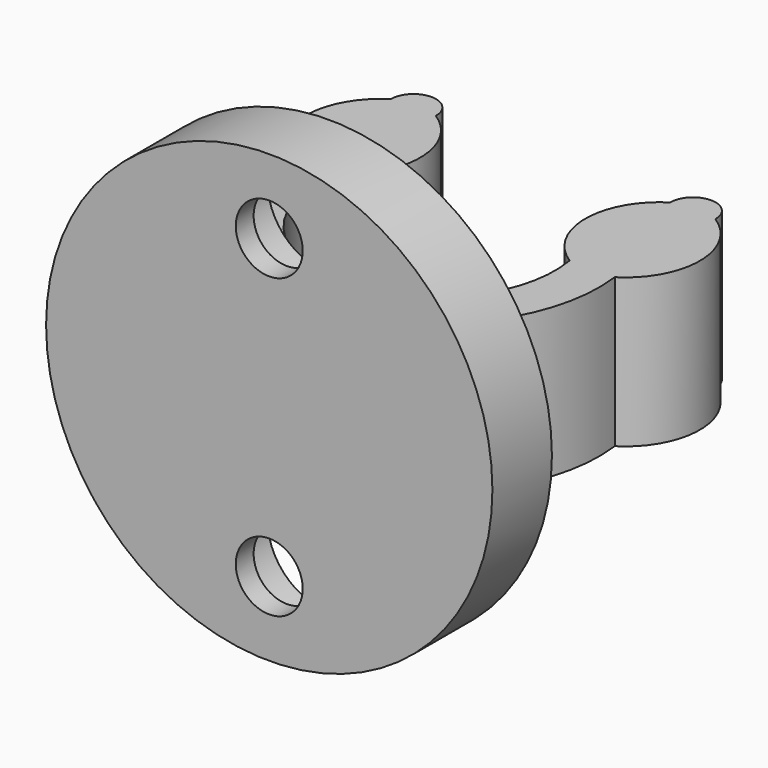
from build123d import *

# Parameters (mm, degrees)
F1_DEPTH       = 5
F5_D           = 4.5
F5_CBORE_D     = 8.25
F5_CBORE_DEPTH = 3.5


with BuildPart() as f1:
    # F0 (on Top) → F1 (new body, symmetric)
    with BuildSketch(Plane.XY):
        with BuildLine():
            ThreePointArc((7.8784620241, 9.8445622258), (5.5480407874, 5.6168738236), (7.8784620241, 1.3891854213))
            ThreePointArc((7.8784620241, 1.3891854213), (6.128355545, -5.1423008775), (0, -8))
            Line((0, -8), (0, -11))
            ThreePointArc((0, -11), (8.2547271195, -7.2704525432), (10.9119275962, 1.3891854213))
            ThreePointArc((10.9119275962, 1.3891854213), (13.2423488329, 5.6168738236), (10.9119275962, 9.8445622258))
            ThreePointArc((10.9119275962, 9.8445622258), (9.3951948102, 11.3803842849), (7.8784620241, 9.8445622258))
        make_face()
        with BuildLine():
            Line((-4.8236730193, -8), (0, -8))
            ThreePointArc((0, -8), (-6.128355545, -5.1423008775), (-7.8784620241, 1.3891854213))
            ThreePointArc((-7.8784620241, 1.3891854213), (-5.5480407874, 5.6168738236), (-7.8784620241, 9.8445622258))
            ThreePointArc((-7.8784620241, 9.8445622258), (-9.3951948102, 11.3803842849), (-10.9119275962, 9.8445622258))
            ThreePointArc((-10.9119275962, 9.8445622258), (-13.2423488329, 5.6168738236), (-10.9119275962, 1.3891854213))
            ThreePointArc((-10.9119275962, 1.3891854213), (-10.0626974149, -4.4432106339), (-6.3245553203, -9))
            Line((-6.3245553203, -9), (-5, -9))
            Line((-5, -9), (-4.8236730193, -8))
        make_face()
        with BuildLine():
            Line((0, -11), (0, -8))
            Line((0, -8), (-4.8236730193, -8))
            Line((-4.8236730193, -8), (-5, -9))
            Line((-5, -9), (-6.3245553203, -9))
            ThreePointArc((-6.3245553203, -9), (-3.3166247904, -10.4880884817), (0, -11))
        make_face()
    extrude(amount=F1_DEPTH, both=True)


with BuildPart() as f2:
    # F0 (on Top) → F2 (revolve)
    with BuildSketch(Plane.XY):
        with BuildLine():
            Line((0, -11), (0, -8))
            Line((0, -8), (-4.8236730193, -8))
            Line((-4.8236730193, -8), (-5, -9))
            Line((-5, -9), (-6.3245553203, -9))
            ThreePointArc((-6.3245553203, -9), (-3.3166247904, -10.4880884817), (0, -11))
        make_face()
        with BuildLine():
            Line((0, -14), (0, -11))
            ThreePointArc((0, -11), (-3.3166247904, -10.4880884817), (-6.3245553203, -9))
            Line((-6.3245553203, -9), (-15, -9))
            Line((-15, -9), (-15, -14))
            Line((-15, -14), (0, -14))
        make_face()
    revolve(axis=Axis((0, -31.6533013247, 0), (0, -1, 0)))


with BuildPart() as f1_1:
    add(f1.part)

    # F3: union F2
    add(f2.part)

    # F5 (through all)
    with Locations(Plane(origin=(0, -9, 0), x_dir=(-1, 0, 0), z_dir=(0, 1, 0))):
        with Locations((0, -10), (0, 10)):
            CounterBoreHole(F5_D / 2, F5_CBORE_D / 2, F5_CBORE_DEPTH)


solid = f1_1.part
